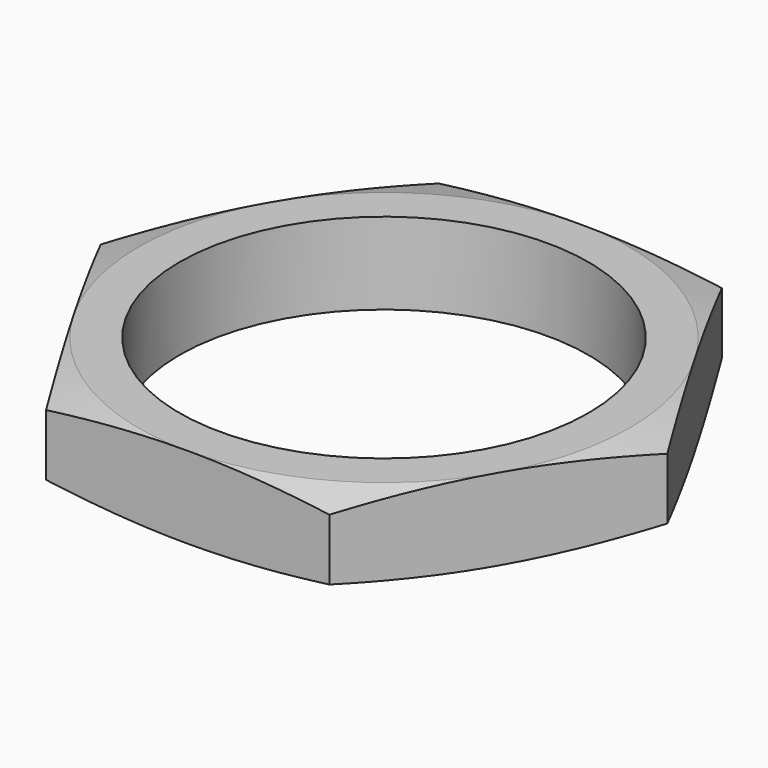
from build123d import *

# Parameters (mm, degrees)
F0_R     = 15.875
F1_DEPTH = 6.35


with BuildPart() as f1:
    # F0 (on Top) → F1 (new body)
    with BuildSketch(Plane.XY):
        Polygon((10.9985226281, 19.05), (-10.9985226281, 19.05), (-21.9970452561, 0), (-10.9985226281, -19.05), (10.9985226281, -19.05), (21.9970452561, 0), align=None)
        Circle(F0_R, mode=Mode.SUBTRACT)
    extrude(amount=F1_DEPTH)

    # F3: sweep along a path in F3_path
    with BuildLine(Plane(origin=(15.875, 0, 6.35), x_dir=(0, 1, 0), z_dir=(0, 0, 1))) as f3_path:
        CenterArc((0, 15.875), 15.875, 0, 360)
    # F2 (on Front) → F3 (sweep, cut)
    with BuildSketch(Plane.XZ):
        Polygon((-29.21, 2.7223637951), (-29.21, 3.6276362049), (-30.899261314, 3.175), align=None)
        Polygon((-19.05, 0), (-29.21, 2.7223637951), (-29.21, 0), align=None)
        Polygon((-29.21, 3.6276362049), (-19.05, 6.35), (-29.21, 6.35), align=None)
    sweep(path=f3_path.line, mode=Mode.SUBTRACT)


solid = f1.part
